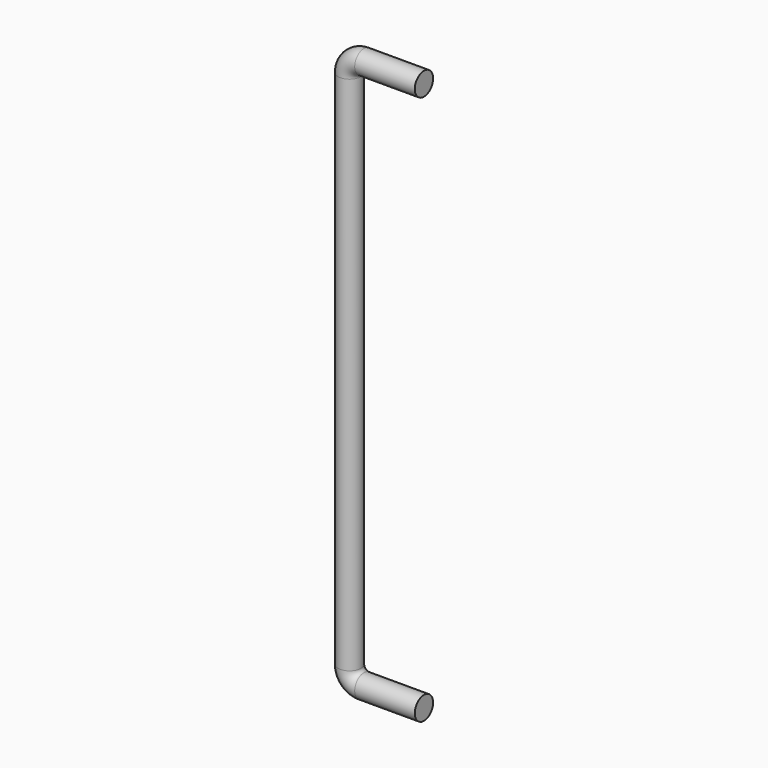
from build123d import *

# Parameters (mm, degrees)
F1_R = 4


with BuildPart() as f2:
    # F2: sweep along a path in F0
    with BuildLine(Plane.XZ) as f2_path:
        Line((0, 0), (-21, 0))
        ThreePointArc((-21, 0), (-24.535534, 1.464466), (-26, 5))
        Line((-26, 5), (-26, 187))
        ThreePointArc((-26, 187), (-24.535534, 190.535534), (-21, 192))
        Line((-21, 192), (0, 192))
    # F1 (on Right) → F2 (sweep)
    with BuildSketch(Plane.YZ):
        Circle(F1_R)
    sweep(path=f2_path.line)


solid = f2.part
